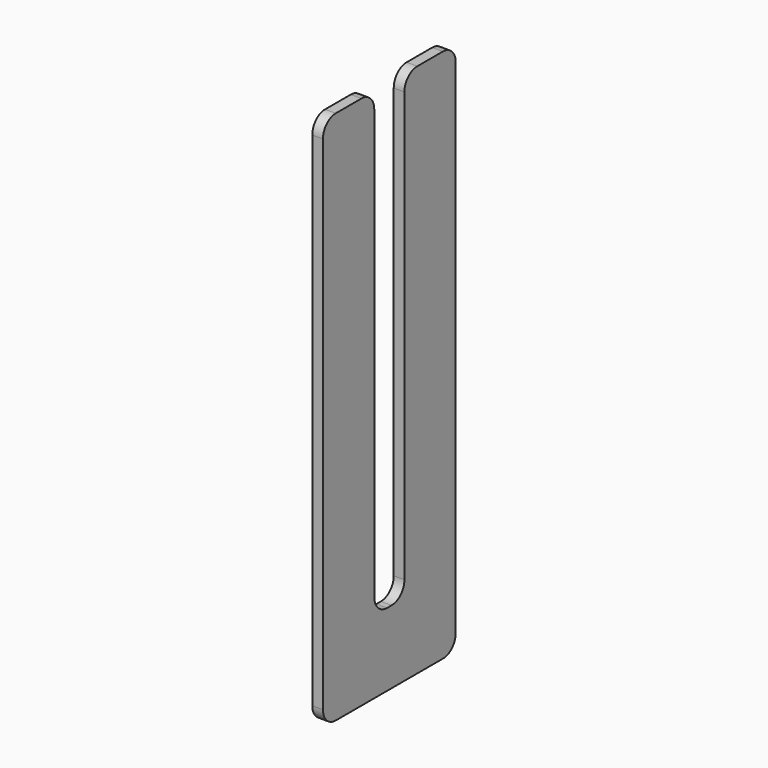
from build123d import *

# Parameters (mm, degrees)
F1_DEPTH = 2


with BuildPart() as f1:
    # F0 (on Right) → F1 (new body)
    with BuildSketch(Plane.YZ):
        with BuildLine():
            ThreePointArc((-16.050784, 75.634497), (-18.172104, 74.755817), (-19.050784, 72.634497))
            Line((-19.050784, 72.634497), (-19.050784, -21.365503))
            ThreePointArc((-19.050784, -21.365503), (-18.172104, -23.486823), (-16.050784, -24.365503))
            Line((-16.050784, -24.365503), (9, -24.365503))
            ThreePointArc((9, -24.365503), (11.12132, -23.486823), (12, -21.365503))
            Line((12, -21.365503), (12, 72.634497))
            ThreePointArc((12, 72.634497), (11.12132, 74.755817), (9, 75.634497))
            Line((9, 75.634497), (3, 75.634497))
            ThreePointArc((3, 75.634497), (0.87868, 74.755817), (0, 72.634497))
            Line((0, 72.634497), (0, -7.707447))
            ThreePointArc((0, -7.707447), (-0.87868, -9.828767), (-3, -10.707447))
            Line((-3, -10.707447), (-4.050784, -10.707447))
            ThreePointArc((-4.050784, -10.707447), (-6.172104, -9.828767), (-7.050784, -7.707447))
            Line((-7.050784, -7.707447), (-7.050784, 72.634497))
            ThreePointArc((-7.050784, 72.634497), (-7.929464, 74.755817), (-10.050784, 75.634497))
            Line((-10.050784, 75.634497), (-16.050784, 75.634497))
        make_face()
    extrude(amount=F1_DEPTH)


solid = f1.part
